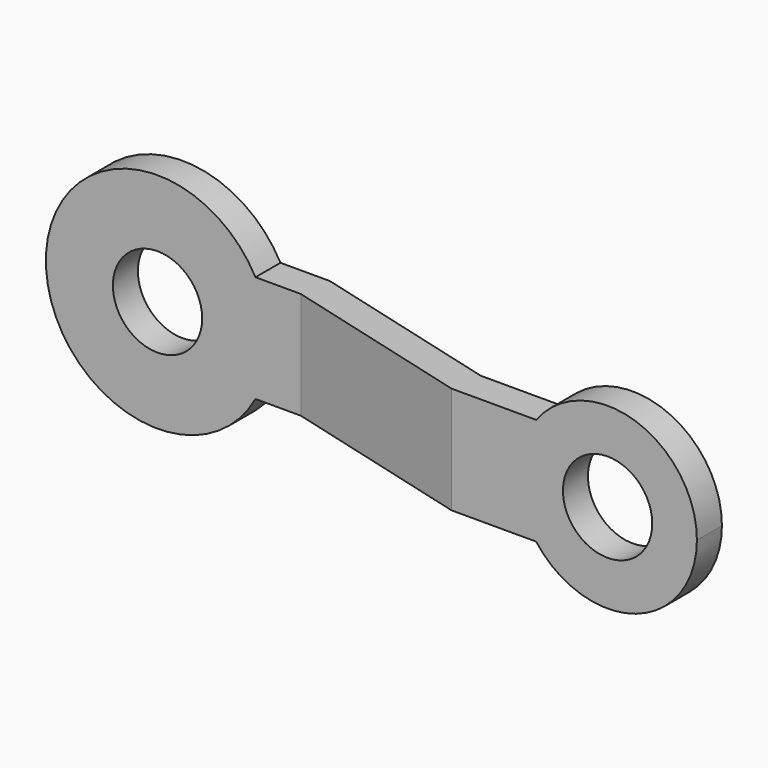
from build123d import *

# Parameters (mm, degrees)
F0_R     = 127
F1_DEPTH = 660.4
F3_DEPTH = 490.22


with BuildPart() as f1:
    # F0 (on Front) → F1 (new body)
    with BuildSketch(Plane.XZ):
        with BuildLine():
            ThreePointArc((278.532745, -152.4), (307.603963, -78.651457), (317.5, 0))
            ThreePointArc((317.5, 0), (307.603963, 78.651457), (278.532745, 152.4))
            ThreePointArc((278.532745, 152.4), (-317.5, 0), (278.532745, -152.4))
        make_face()
        Circle(F0_R, mode=Mode.SUBTRACT)
        with BuildLine():
            ThreePointArc((278.532745, 152.4), (307.603963, 78.651457), (317.5, 0))
            ThreePointArc((317.5, 0), (307.603963, -78.651457), (278.532745, -152.4))
            Line((278.532745, -152.4), (1193.8, -152.4))
            ThreePointArc((1193.8, -152.4), (1143, 0), (1193.8, 152.4))
            Line((1193.8, 152.4), (278.532745, 152.4))
        make_face()
        with BuildLine():
            ThreePointArc((1651, 0), (1477.321853, 240.965558), (1193.8, 152.4))
            ThreePointArc((1193.8, 152.4), (1143, 0), (1193.8, -152.4))
            ThreePointArc((1193.8, -152.4), (1477.321853, -240.965558), (1651, 0))
        make_face()
        with Locations((1397, 0)):
            Circle(F0_R, mode=Mode.SUBTRACT)
    extrude(amount=F1_DEPTH)

    # F2 (on Top) → F3 (intersect, symmetric)
    with BuildSketch(Plane.XY):
        Polygon((-317.5, 0), (-317.5, -88.9), (407.396093, -88.9), (953.496093, -235.227054), (1651, -235.227054), (1651, -146.327054), (965.2, -146.327054), (419.1, 0), align=None)
    extrude(amount=F3_DEPTH, both=True, mode=Mode.INTERSECT)


solid = f1.part
